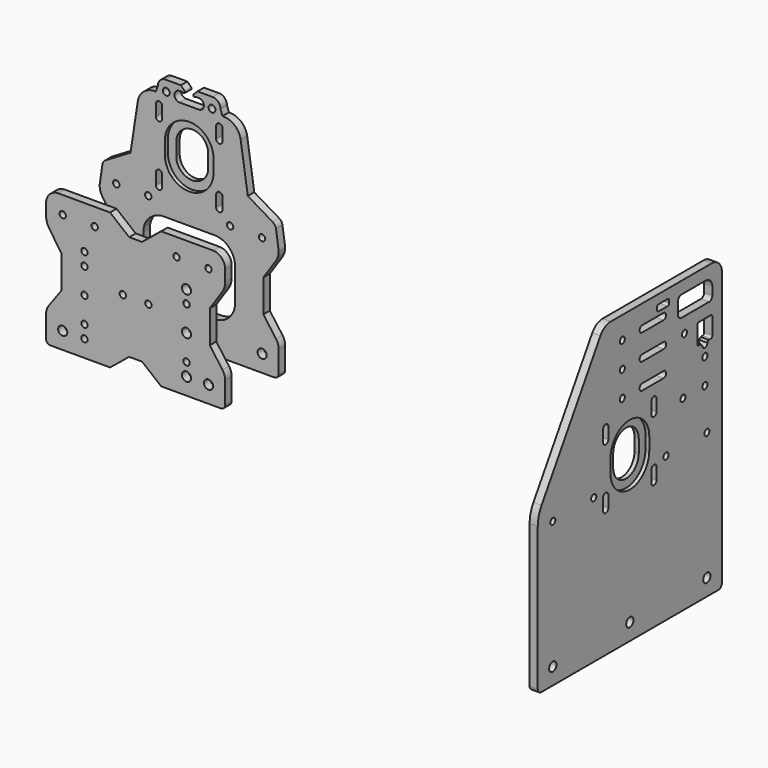
from build123d import *

# Parameters (mm, degrees)
F1_DEPTH  = 6.35
F2_R      = 3.5685
F2_R_2    = 2.5
F3_DEPTH  = 6.351
F5_DEPTH  = 6.351
F6_R      = 2.5
F7_DEPTH  = 6.351
F9_DEPTH  = 6.351
F10_R     = 2.5
F11_DEPTH = 6.351
F13_DEPTH = 6.351
F16_DEPTH = 6.35
F17_R     = 2.5
F18_DEPTH = 96.351
F19_R     = 2.5
F19_R_2   = 3.5685
F20_DEPTH = 96.351
F21_R     = 3.5685
F21_R_2   = 2.5
F22_DEPTH = 96.351
F23_R     = 9.6
F24_R     = 3.36
F25_R     = 14
F26_R     = 11
F29_DEPTH = 6.35
F30_R     = 2.5
F30_R_2   = 3.5685
F31_DEPTH = 44.001
F32_R     = 13.7
F33_R     = 5.5
F35_DEPTH = 44.001
F36_R     = 2.7
F37_DEPTH = 44.001
F39_DEPTH = 44.001
F41_DEPTH = 3
F43_DEPTH = 3


with BuildPart() as f1:
    # F0 (on Right) → F1 (new body)
    with BuildSketch(Plane.YZ):
        with BuildLine():
            ThreePointArc((-18.5517731611, 113.75), (-24.4005348578, 112.2281671401), (-28.7658235978, 108.048664436))
            Line((-28.7658235978, 108.048664436), (-86.2792717431, 14.7836133896))
            ThreePointArc((-86.2792717431, 14.7836133896), (-89.0518377009, 8.4811541103), (-90, 1.6613958147))
            Line((-90, 1.6613958147), (-90, -110.25))
            ThreePointArc((-90, -110.25), (-88.9748737342, -112.7248737342), (-86.5, -113.75))
            Line((-86.5, -113.75), (86.5, -113.75))
            ThreePointArc((86.5, -113.75), (88.9748737342, -112.7248737342), (90, -110.25))
            Line((90, -110.25), (90, 103.75))
            ThreePointArc((90, 103.75), (87.0710678119, 110.8210678119), (80, 113.75))
            Line((80, 113.75), (-18.5517731611, 113.75))
        make_face()
    extrude(amount=F1_DEPTH)

    # F2 (on face) → F3 (cut, through all)
    with BuildSketch(Plane.YZ.offset(6.35)):
        with Locations((-75.3, -100.75)):
            Circle(F2_R)
        with Locations((75.3, -100.75)):
            Circle(F2_R)
        with Locations((0, -100.75)):
            Circle(F2_R)
        with Locations((-75.3, -0.75)):
            Circle(F2_R_2)
        with Locations((-35.3, -0.75)):
            Circle(F2_R_2)
        with Locations((35.3, -0.75)):
            Circle(F2_R_2)
        with Locations((75.3, -0.75)):
            Circle(F2_R_2)
    extrude(amount=-F3_DEPTH, mode=Mode.SUBTRACT)

    # F4 (on face) → F5 (cut, through all)
    with BuildSketch(Plane.YZ.offset(6.35)):
        with BuildLine():
            Line((-12.5, 19.55), (-12.5, 9.55))
            ThreePointArc((-12.5, 9.55), (0, -2.95), (12.5, 9.55))
            Line((12.5, 9.55), (12.5, 19.55))
            ThreePointArc((12.5, 19.55), (0, 32.05), (-12.5, 19.55))
        make_face()
        with BuildLine():
            Line((-21.02, 33.62), (-21.02, 42.62))
            ThreePointArc((-21.02, 42.62), (-23.57, 45.17), (-26.12, 42.62))
            Line((-26.12, 42.62), (-26.12, 33.62))
            ThreePointArc((-26.12, 33.62), (-23.57, 31.07), (-21.02, 33.62))
        make_face()
        with BuildLine():
            ThreePointArc((21.02, 33.62), (23.57, 31.07), (26.12, 33.62))
            Line((26.12, 33.62), (26.12, 42.62))
            ThreePointArc((26.12, 42.62), (23.57, 45.17), (21.02, 42.62))
            Line((21.02, 42.62), (21.02, 33.62))
        make_face()
        with BuildLine():
            Line((26.12, -13.52), (26.12, -4.52))
            ThreePointArc((26.12, -4.52), (23.57, -1.97), (21.02, -4.52))
            Line((21.02, -4.52), (21.02, -13.52))
            ThreePointArc((21.02, -13.52), (23.57, -16.07), (26.12, -13.52))
        make_face()
        with BuildLine():
            ThreePointArc((-21.02, -4.52), (-23.57, -1.97), (-26.12, -4.52))
            Line((-26.12, -4.52), (-26.12, -13.52))
            ThreePointArc((-26.12, -13.52), (-23.57, -16.07), (-21.02, -13.52))
            Line((-21.02, -13.52), (-21.02, -4.52))
        make_face()
    extrude(amount=-F5_DEPTH, mode=Mode.SUBTRACT)

    # F6 (on face) → F7 (cut, through all)
    with BuildSketch(Plane.YZ.offset(6.35)):
        with Locations((-7.35, 96.25)):
            Circle(F6_R)
        with BuildLine():
            ThreePointArc((12, 98.75), (9.5, 96.25), (12, 93.75))
            Line((12, 93.75), (33, 93.75))
            ThreePointArc((33, 93.75), (35.5, 96.25), (33, 98.75))
            Line((33, 98.75), (12, 98.75))
        make_face()
        with Locations((-7.35, 76.25)):
            Circle(F6_R)
        with BuildLine():
            ThreePointArc((12, 78.75), (9.5, 76.25), (12, 73.75))
            Line((12, 73.75), (33, 73.75))
            ThreePointArc((33, 73.75), (35.5, 76.25), (33, 78.75))
            Line((33, 78.75), (12, 78.75))
        make_face()
        with Locations((-7.35, 56.25)):
            Circle(F6_R)
        with BuildLine():
            ThreePointArc((12, 58.75), (9.5, 56.25), (12, 53.75))
            Line((12, 53.75), (33, 53.75))
            ThreePointArc((33, 53.75), (35.5, 56.25), (33, 58.75))
            Line((33, 58.75), (12, 58.75))
        make_face()
        with Locations((53.35, 76.25)):
            Circle(F6_R)
    extrude(amount=-F7_DEPTH, mode=Mode.SUBTRACT)

    # F8 (on face) → F9 (cut, through all)
    with BuildSketch(Plane.YZ.offset(6.35)):
        with BuildLine():
            Line((36.9, 106.75), (28.1, 106.75))
            ThreePointArc((28.1, 106.75), (26.9686291501, 106.2813708499), (26.5, 105.15))
            Line((26.5, 105.15), (26.5, 103.35))
            ThreePointArc((26.5, 103.35), (26.9686291501, 102.2186291501), (28.1, 101.75))
            Line((28.1, 101.75), (36.9, 101.75))
            ThreePointArc((36.9, 101.75), (38.0313708499, 102.2186291501), (38.5, 103.35))
            Line((38.5, 103.35), (38.5, 105.15))
            ThreePointArc((38.5, 105.15), (38.0313708499, 106.2813708499), (36.9, 106.75))
        make_face()
    extrude(amount=-F9_DEPTH, mode=Mode.SUBTRACT)

    # F10 (on face) → F11 (cut, through all)
    with BuildSketch(Plane.YZ.offset(6.35)):
        with Locations((73.3, 52.25)):
            Circle(F10_R)
        with Locations((73.3, 32.25)):
            Circle(F10_R)
        with Locations((51.95, 32.25)):
            Circle(F10_R)
    extrude(amount=-F11_DEPTH, mode=Mode.SUBTRACT)

    # F12 (on face) → F13 (cut, through all)
    with BuildSketch(Plane.YZ.offset(6.35)):
        with BuildLine():
            ThreePointArc((67.55, 78.4), (66.4186291501, 77.9313708499), (65.95, 76.8))
            Line((65.95, 76.8), (65.95, 63.85))
            ThreePointArc((65.95, 63.85), (66.4186291501, 62.7186291501), (67.55, 62.25))
            Line((67.55, 62.25), (69.649009518, 62.25))
            Line((69.649009518, 62.25), (70.8, 60.75))
            ThreePointArc((70.8, 60.75), (73.3, 58.25), (75.8, 60.75))
            Line((75.8, 60.75), (76.950990482, 62.25))
            Line((76.950990482, 62.25), (79.05, 62.25))
            ThreePointArc((79.05, 62.25), (80.1813708499, 62.7186291501), (80.65, 63.85))
            Line((80.65, 63.85), (80.65, 76.8))
            ThreePointArc((80.65, 76.8), (80.1813708499, 77.9313708499), (79.05, 78.4))
            Line((79.05, 78.4), (67.55, 78.4))
        make_face()
        with BuildLine():
            ThreePointArc((77.5, 88.25), (79.7273863607, 89.1726136393), (80.65, 91.4))
            Line((80.65, 91.4), (80.65, 97.6))
            ThreePointArc((80.65, 97.6), (78.7022600949, 102.3022600949), (74, 104.25))
            Line((74, 104.25), (50.3, 104.25))
            ThreePointArc((50.3, 104.25), (48.0726136393, 103.3273863607), (47.15, 101.1))
            Line((47.15, 101.1), (47.15, 91.4))
            ThreePointArc((47.15, 91.4), (48.0726136393, 89.1726136393), (50.3, 88.25))
            Line((50.3, 88.25), (77.5, 88.25))
        make_face()
    extrude(amount=-F13_DEPTH, mode=Mode.SUBTRACT)


with BuildPart() as f1_1:
    # F14: moved
    add(f1.part.moved(Location((375, 0, 0))))

    # F40 (on face) → F41 (cut)
    with BuildSketch(Plane.YZ.offset(381.35)):
        with BuildLine():
            Line((-19, 19.55), (-19, 9.55))
            ThreePointArc((-19, 9.55), (0, -9.45), (19, 9.55))
            Line((19, 9.55), (19, 19.55))
            ThreePointArc((19, 19.55), (0, 38.55), (-19, 19.55))
        make_face()
    extrude(amount=-F41_DEPTH, mode=Mode.SUBTRACT)


with BuildPart() as f16:
    # F15 (on Front) → F16 (new body)
    with BuildSketch(Plane.XZ):
        Polygon((5, 41.2), (0, 41.2), (-5, 41.2), (-20, 53.35), (-70, 53.35), (-70, 30.5), (-58, 12.75), (-58, -12.75), (-70, -29.25), (-70, -53.35), (-20, -53.35), (-5, -41.2), (0, -41.2), (5, -41.2), (20, -53.35), (70, -53.35), (70, -29.25), (58, -12.75), (58, 12.75), (70, 30.5), (70, 53.35), (20, 53.35), align=None)
    extrude(amount=F16_DEPTH)

    # F17 (on face) → F18 (cut, through all)
    with BuildSketch(Plane.XZ.offset(6.35)):
        with Locations((-10, 0)):
            Circle(F17_R)
        with Locations((10, 0)):
            Circle(F17_R)
    extrude(amount=-F18_DEPTH, mode=Mode.SUBTRACT)

    # F19 (on face) → F20 (cut, through all)
    with BuildSketch(Plane.XZ.offset(6.35)):
        with Locations((32, 39.7)):
            Circle(F19_R)
        with Locations((57, 39.7)):
            Circle(F19_R)
        with Locations((57, -40.1)):
            Circle(F19_R_2)
        with Locations((-57, -40.1)):
            Circle(F19_R_2)
        with Locations((-57, 39.7)):
            Circle(F19_R)
        with Locations((-32, 39.7)):
            Circle(F19_R)
    extrude(amount=-F20_DEPTH, mode=Mode.SUBTRACT)

    # F21 (on face) → F22 (cut, through all)
    with BuildSketch(Plane.XZ.offset(6.35)):
        with Locations((39.8, 19.85)):
            Circle(F21_R)
        with Locations((39.8, -10.15)):
            Circle(F21_R)
        with Locations((39.8, -40.15)):
            Circle(F21_R)
        with Locations((39.8, 9.85)):
            Circle(F21_R_2)
        with Locations((39.8, -30.15)):
            Circle(F21_R_2)
        with Locations((-40, 19.85)):
            Circle(F21_R_2)
        with Locations((-40, 9.85)):
            Circle(F21_R_2)
        with Locations((-40, -10.15)):
            Circle(F21_R_2)
        with Locations((-40, -30.15)):
            Circle(F21_R_2)
        with Locations((-40, -40.15)):
            Circle(F21_R_2)
    extrude(amount=-F22_DEPTH, mode=Mode.SUBTRACT)

    # F23
    f23_edges = [f16.edges().sort_by_distance(p)[0] for p in [
        (-70, -3.175, 53.35),
        (70, -3.175, 53.35),
    ]]
    fillet(f23_edges, radius=F23_R)

    # F24
    f24_edges = [f16.edges().sort_by_distance(p)[0] for p in [
        (70, -3.175, -53.35),
        (-70, -3.175, -53.35),
    ]]
    fillet(f24_edges, radius=F24_R)

    # F25
    f25_edges = [f16.edges().sort_by_distance(p)[0] for p in [
        (70, -3.175, 30.5),
        (-70, -3.175, 30.5),
    ]]
    fillet(f25_edges, radius=F25_R)

    # F26
    f26_edges = [f16.edges().sort_by_distance(p)[0] for p in [
        (70, -3.175, -29.25),
        (-70, -3.175, -29.25),
    ]]
    fillet(f26_edges, radius=F26_R)


with BuildPart() as f29:
    # F28 (on offset) → F29 (new body)
    with BuildSketch(Plane(origin=(0, 46, 0), x_dir=(-1, 0, 0), z_dir=(0, 1, 0))):
        with BuildLine():
            Line((-45.840954545, 64.8102000961), (-67.5, 51.95))
            Line((-67.5, 51.95), (-70, 34.7883678379))
            ThreePointArc((-70, 34.7883678379), (-69.3860890329, 30.688048289), (-67.5981970853, 26.9473331887))
            Line((-67.5981970853, 26.9473331887), (-58, 12.75))
            Line((-58, 12.75), (-58, -12.75))
            Line((-58, -12.75), (-67.8960969273, -26.3571332751))
            ThreePointArc((-67.8960969273, -26.3571332751), (-69.4608093903, -29.4253360587), (-70, -32.8270219495))
            Line((-70, -32.8270219495), (-70, -49.99))
            ThreePointArc((-70, -49.99), (-69.0158787848, -52.3658787848), (-66.64, -53.35))
            Line((-66.64, -53.35), (-20, -53.35))
            Line((-20, -53.35), (20, -53.35))
            Line((20, -53.35), (66.64, -53.35))
            ThreePointArc((66.64, -53.35), (69.0158787848, -52.3658787848), (70, -49.99))
            Line((70, -49.99), (70, -32.8270219495))
            ThreePointArc((70, -32.8270219495), (69.4608093903, -29.4253360587), (67.8960969273, -26.3571332751))
            Line((67.8960969273, -26.3571332751), (58, -12.75))
            Line((58, -12.75), (58, 12.75))
            Line((58, 12.75), (67.5981970853, 26.9473331887))
            ThreePointArc((67.5981970853, 26.9473331887), (69.3860890329, 30.688048289), (70, 34.7883678379))
            Line((70, 34.7883678379), (67.5, 51.95))
            Line((67.5, 51.95), (45.840954545, 64.8102000961))
            Line((45.840954545, 64.8102000961), (38.5, 113.35))
            Line((38.5, 113.35), (26, 113.35))
            Line((26, 113.35), (24.5028116214, 117.85))
            ThreePointArc((24.5028116214, 117.85), (22.6956604613, 122.2128488399), (18.3328116214, 124.02))
            Line((18.3328116214, 124.02), (-18.3328116214, 124.02))
            ThreePointArc((-18.3328116214, 124.02), (-22.6956604613, 122.2128488399), (-24.5028116214, 117.85))
            Line((-24.5028116214, 117.85), (-26, 113.35))
            Line((-26, 113.35), (-38.5, 113.35))
            Line((-38.5, 113.35), (-45.840954545, 64.8102000961))
        make_face()
    extrude(amount=F29_DEPTH)

    # F30 (on face) → F31 (cut, through all)
    with BuildSketch(Plane.XZ.offset(-46)):
        with Locations((-57, 39.7)):
            Circle(F30_R)
        with Locations((-32, 39.7)):
            Circle(F30_R)
        with Locations((32, 39.7)):
            Circle(F30_R)
        with Locations((57, 39.7)):
            Circle(F30_R)
        with Locations((-57, -40.1)):
            Circle(F30_R_2)
        with Locations((57, -40.1)):
            Circle(F30_R_2)
    extrude(amount=-F31_DEPTH, mode=Mode.SUBTRACT)

    # F32
    f32_edges = [f29.edges().sort_by_distance(p)[0] for p in [
        (38.5, 49.175, 113.35),
        (-38.5, 49.175, 113.35),
    ]]
    fillet(f32_edges, radius=F32_R)

    # F33
    f33_edges = [f29.edges().sort_by_distance(p)[0] for p in [
        (67.5, 49.175, 51.95),
        (-67.5, 49.175, 51.95),
    ]]
    fillet(f33_edges, radius=F33_R)

    # F34 (on face) → F35 (cut, through all)
    with BuildSketch(Plane.XZ.offset(-46)):
        with BuildLine():
            Line((19.85, 29.35), (-19.85, 29.35))
            ThreePointArc((-19.85, 29.35), (-31.163708499, 24.663708499), (-35.85, 13.35))
            Line((-35.85, 13.35), (-35.85, -12.35))
            ThreePointArc((-35.85, -12.35), (-31.163708499, -23.663708499), (-19.85, -28.35))
            Line((-19.85, -28.35), (19.85, -28.35))
            ThreePointArc((19.85, -28.35), (31.163708499, -23.663708499), (35.85, -12.35))
            Line((35.85, -12.35), (35.85, 13.35))
            ThreePointArc((35.85, 13.35), (31.163708499, 24.663708499), (19.85, 29.35))
        make_face()
    extrude(amount=-F35_DEPTH, mode=Mode.SUBTRACT)

    # F36 (on face) → F37 (cut, through all)
    with BuildSketch(Plane.XZ.offset(-46)):
        with BuildLine():
            Line((-6.5, 124.02), (-3.5, 121.02))
            ThreePointArc((-3.5, 121.02), (-3.6015980143, 119.5170545837), (-5.0771965897, 119.82))
            Line((-5.0771965897, 119.82), (-7.5, 119.82))
            ThreePointArc((-7.5, 119.82), (-11.5, 115.82), (-7.5, 111.82))
            Line((-7.5, 111.82), (0, 111.82))
            Line((0, 111.82), (7.5, 111.82))
            ThreePointArc((7.5, 111.82), (11.5, 115.82), (7.5, 119.82))
            Line((7.5, 119.82), (5.0771965897, 119.82))
            ThreePointArc((5.0771965897, 119.82), (3.6015980143, 119.5170545837), (3.5, 121.02))
            Line((3.5, 121.02), (6.5, 124.02))
            Line((6.5, 124.02), (0, 124.02))
            Line((0, 124.02), (-6.5, 124.02))
        make_face()
        with Locations((-17.86, 115.82)):
            Circle(F36_R)
        with Locations((17.86, 115.82)):
            Circle(F36_R)
    extrude(amount=-F37_DEPTH, mode=Mode.SUBTRACT)

    # F38 (on face) → F39 (cut, through all)
    with BuildSketch(Plane.XZ.offset(-46)):
        with BuildLine():
            ThreePointArc((12.5, 81.97), (0, 94.47), (-12.5, 81.97))
            Line((-12.5, 81.97), (-12.5, 71.97))
            ThreePointArc((-12.5, 71.97), (0, 59.47), (12.5, 71.97))
            Line((12.5, 71.97), (12.5, 81.97))
        make_face()
        with BuildLine():
            ThreePointArc((-21.07, 57.9), (-23.57, 60.4), (-26.07, 57.9))
            Line((-26.07, 57.9), (-26.07, 48.9))
            ThreePointArc((-26.07, 48.9), (-23.57, 46.4), (-21.07, 48.9))
            Line((-21.07, 48.9), (-21.07, 57.9))
        make_face()
        with BuildLine():
            Line((26.07, 48.9), (26.07, 57.9))
            ThreePointArc((26.07, 57.9), (23.57, 60.4), (21.07, 57.9))
            Line((21.07, 57.9), (21.07, 48.9))
            ThreePointArc((21.07, 48.9), (23.57, 46.4), (26.07, 48.9))
        make_face()
        with BuildLine():
            Line((-26.07, 105.04), (-26.07, 96.04))
            ThreePointArc((-26.07, 96.04), (-23.57, 93.54), (-21.07, 96.04))
            Line((-21.07, 96.04), (-21.07, 105.04))
            ThreePointArc((-21.07, 105.04), (-23.57, 107.54), (-26.07, 105.04))
        make_face()
        with BuildLine():
            Line((26.07, 96.04), (26.07, 105.04))
            ThreePointArc((26.07, 105.04), (23.57, 107.54), (21.07, 105.04))
            Line((21.07, 105.04), (21.07, 96.04))
            ThreePointArc((21.07, 96.04), (23.57, 93.54), (26.07, 96.04))
        make_face()
    extrude(amount=-F39_DEPTH, mode=Mode.SUBTRACT)

    # F42 (on face) → F43 (cut)
    with BuildSketch(Plane.XZ.offset(-46)):
        with BuildLine():
            Line((19, 71.97), (19, 81.97))
            ThreePointArc((19, 81.97), (0, 100.97), (-19, 81.97))
            Line((-19, 81.97), (-19, 71.97))
            ThreePointArc((-19, 71.97), (0, 52.97), (19, 71.97))
        make_face()
    extrude(amount=-F43_DEPTH, mode=Mode.SUBTRACT)


solid = Compound([f1_1.part, f16.part, f29.part])
